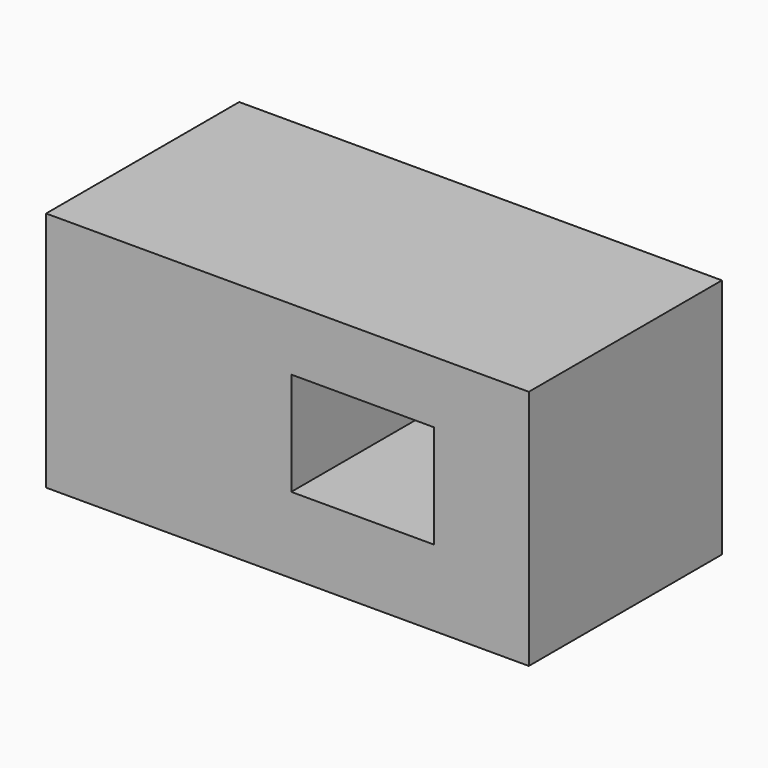
from build123d import *

# Parameters (mm, degrees)
F1_W     = 101.6
F1_H     = 50.8
F2_DEPTH = 50.8
F3_W     = 30
F3_H     = 21.73832
F4_DEPTH = 50.8


with BuildPart() as f2:
    # F1 (on Top) → F2 (new body)
    with BuildSketch(Plane.XY):
        with Locations((50.8, 25.4)):
            Rectangle(F1_W, F1_H)
    extrude(amount=F2_DEPTH)

    # F3 (on face) → F4 (cut, through all)
    with BuildSketch(Plane(origin=(0, 50.8, 0), x_dir=(-1, 0, 0), z_dir=(0, 1, 0))):
        with Locations((-66.6, 26.86916)):
            Rectangle(F3_W, F3_H)
    extrude(amount=-F4_DEPTH, mode=Mode.SUBTRACT)


solid = f2.part
